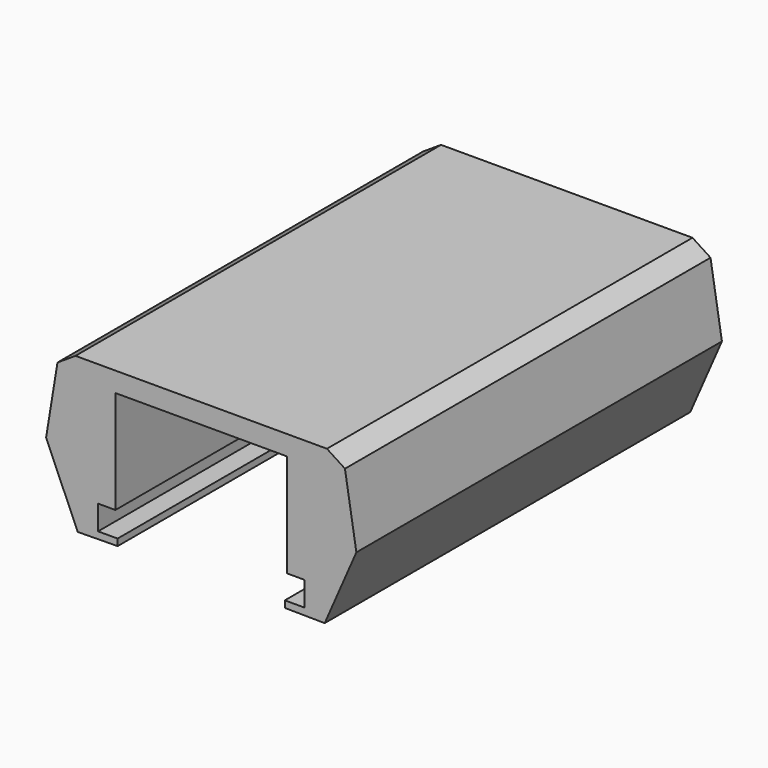
from build123d import *

# Parameters (mm, degrees)
F1_DEPTH = 31.8


with BuildPart() as f1:
    # F0 (on Front) → F1 (new body, symmetric)
    with BuildSketch(Plane.XZ):
        Polygon((-17.183237, 2.360098), (-11.638303, 2.422709), (-11.638303, 3.353359), (-14.35639, 3.353359), (-14.35639, 6.753359), (-11.943397, 6.753359), (-11.943397, 21.087047), (0, 21.087047), (0, 23.83597), (-17.499274, 23.83597), (-20.006202, 22.206467), (-21.593923, 12.471233), align=None)
    extrude(amount=F1_DEPTH, both=True)

    # F2: F1 across plane


with BuildPart() as f1_1:
    add(f1.part)
    add(f1.part.mirror(Plane.YZ))


solid = f1_1.part
